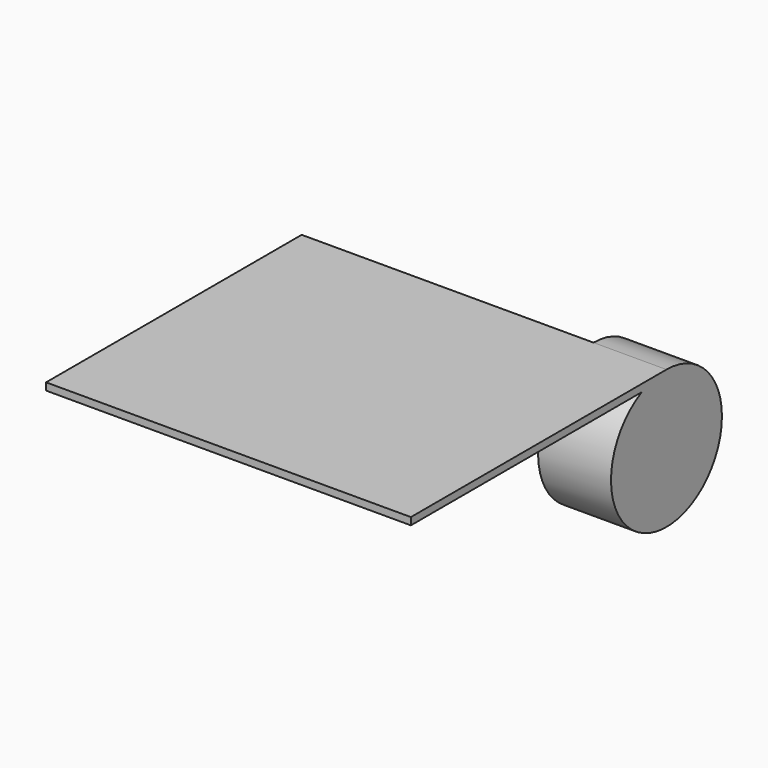
from build123d import *

# Parameters (mm, degrees)
F1_DEPTH = 10
F2_DEPTH = 40


with BuildPart() as f1:
    # F0 (on Right) → F1 (new body)
    with BuildSketch(Plane.YZ):
        with BuildLine():
            ThreePointArc((-4.2426406871, 0), (-4.9972449146, -16.5794519161), (9.5, -8.5))
            ThreePointArc((9.5, -8.5), (6.7175144213, -1.7824855787), (0, 1))
            Line((0, 1), (0, 0))
            Line((0, 0), (-4.2426406871, 0))
        make_face()
        with BuildLine():
            Line((0, 0), (0, 1))
            ThreePointArc((0, 1), (-2.1794494718, 0.7466210045), (-4.2426406871, 0))
            Line((-4.2426406871, 0), (0, 0))
        make_face()
        with BuildLine():
            ThreePointArc((-4.2426406871, 0), (-2.1794494718, 0.7466210045), (0, 1))
            Line((0, 1), (-43.7916786625, 1))
            Line((-43.7916786625, 1), (-43.7916786625, 0))
            Line((-43.7916786625, 0), (-4.2426406871, 0))
        make_face()
    extrude(amount=F1_DEPTH)

    # F0 (on Right) → F2 (join)
    with BuildSketch(Plane.YZ):
        with BuildLine():
            ThreePointArc((-4.2426406871, 0), (-2.1794494718, 0.7466210045), (0, 1))
            Line((0, 1), (-43.7916786625, 1))
            Line((-43.7916786625, 1), (-43.7916786625, 0))
            Line((-43.7916786625, 0), (-4.2426406871, 0))
        make_face()
        with BuildLine():
            Line((0, 0), (0, 1))
            ThreePointArc((0, 1), (-2.1794494718, 0.7466210045), (-4.2426406871, 0))
            Line((-4.2426406871, 0), (0, 0))
        make_face()
    extrude(amount=-F2_DEPTH)


solid = f1.part
